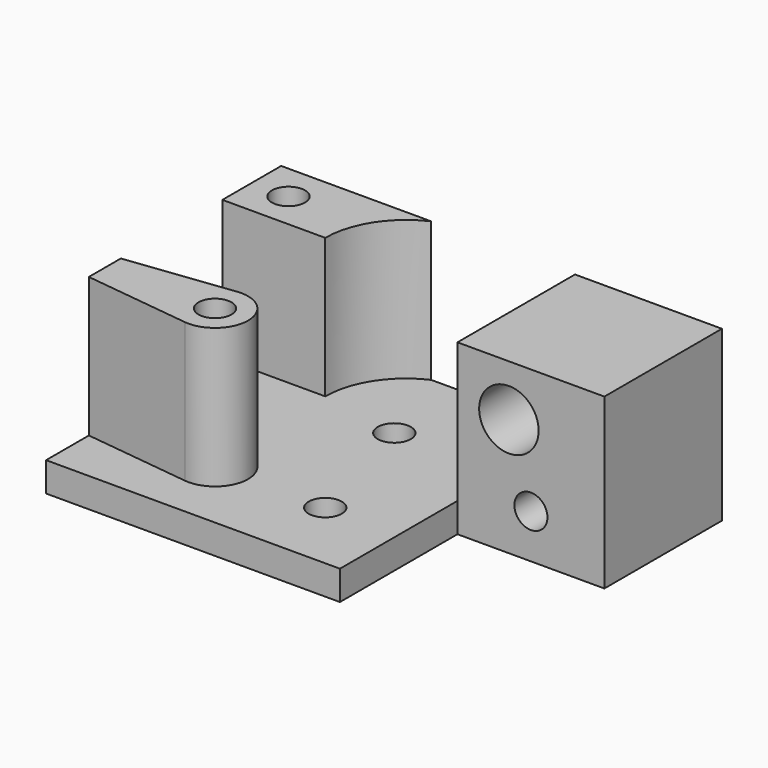
from build123d import *

# Parameters (mm, degrees)
SKETCH_R        = 2.25
PAD_DEPTH       = 23
POCKET_DEPTH    = 19
SKETCH002_R     = 4.05
SKETCH002_R_2   = 2.25
POCKET001_DEPTH = 20.001
SKETCH003_R     = 2.25
POCKET002_DEPTH = 10
SKETCH004_R     = 3.75
POCKET003_DEPTH = 10
SKETCH005_R     = 3.75
POCKET004_DEPTH = 10


with BuildPart() as pocket004:
    # Sketch → Pad (new body)
    with BuildSketch(Plane.XY):
        Polygon((0, -20), (40, -20), (40, 20), (-20, 20), (-20, 0), (0, 0), align=None)
        with Locations((15, 8)):
            Circle(SKETCH_R, mode=Mode.SUBTRACT)
        with Locations((10, -10)):
            Circle(SKETCH_R, mode=Mode.SUBTRACT)
        with Locations((25, -10)):
            Circle(SKETCH_R, mode=Mode.SUBTRACT)
    extrude(amount=PAD_DEPTH)

    # Sketch001 → Pocket (cut)
    with BuildSketch(Plane.XY.offset(23)):
        with BuildLine():
            Line((46, 10), (26, 10))
            ThreePointArc((26, 10), (22.778175, 17.778175), (15, 21))
            Line((15, 21), (0, 21))
            Line((0, 21), (0, -23))
            Line((0, -23), (46, -23))
            Line((46, -23), (46, -12))
            Line((25.538775, -14.46763), (46, -12))
            ThreePointArc((25.538775, -5.53237), (20.5, -10), (25.538775, -14.46763))
            Line((25.538775, -5.53237), (46, -8))
            Line((46, -8), (46, 10))
        make_face()
    extrude(amount=-POCKET_DEPTH, mode=Mode.SUBTRACT)

    # Sketch002 → Pocket001 (cut, through all)
    with BuildSketch(Plane.XZ):
        with Locations((-7, 16)):
            Circle(SKETCH002_R)
        with Locations((-10, 6)):
            Circle(SKETCH002_R_2)
    extrude(amount=-POCKET001_DEPTH, mode=Mode.SUBTRACT)

    # Sketch003 → Pocket002 (cut)
    with BuildSketch(Plane.XY.offset(23)):
        with Locations((35, 15)):
            Circle(SKETCH003_R)
    extrude(amount=-POCKET002_DEPTH, mode=Mode.SUBTRACT)

    # Sketch004 → Pocket003 (cut)
    with BuildSketch(Plane(origin=(0, 20, 0), x_dir=(-1, 0, 0), z_dir=(0, 1, 0))):
        with Locations((10, 6)):
            Circle(SKETCH004_R)
    extrude(amount=-POCKET003_DEPTH, mode=Mode.SUBTRACT)

    # Sketch005 → Pocket004 (cut)
    with BuildSketch(Plane(origin=(0, 0, 0), x_dir=(1, 0, 0), z_dir=(0, 0, -1))):
        with Locations((25, 10)):
            Circle(SKETCH005_R)
    extrude(amount=-POCKET004_DEPTH, mode=Mode.SUBTRACT)


with BuildPart() as part_mirroring:
    # Part__Mirroring: instance of Pocket004
    add(pocket004.part.mirror(Plane(origin=(0, 0, 0), x_dir=(0, -1, 0), z_dir=(1, 0, 0))))


solid = part_mirroring.part
